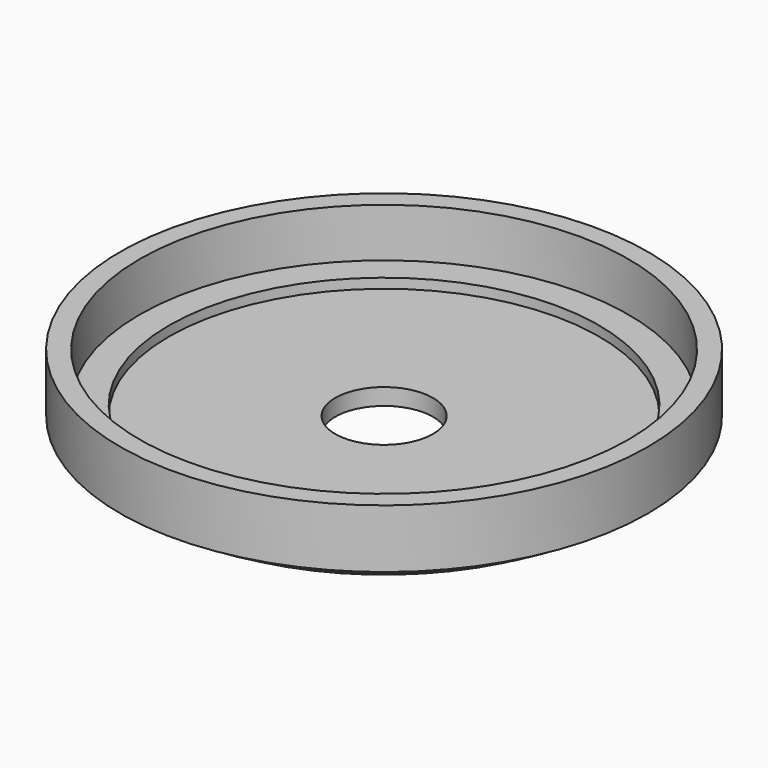
from build123d import *

# Parameters (mm, degrees)
F0_R      = 23.25
F0_R_2    = 5
F1_DEPTH  = 1
F2_R      = 25
F2_R_2    = 23.25
F2_R_3    = 5
F3_DEPTH  = 1.2
F4_R      = 27
F4_R_2    = 25
F4_R_3    = 5
F5_DEPTH  = 6
F6_R      = 22
F6_R_2    = 5
F7_DEPTH  = 6
F8_R      = 25
F8_R_2    = 22
F9_DEPTH  = 5
F10_R     = 21
F10_R_2   = 5
F11_DEPTH = 0.5


with BuildPart() as f1:
    # F0 (on Top) → F1 (new body)
    with BuildSketch(Plane.XY):
        Circle(F0_R)
        Circle(F0_R_2, mode=Mode.SUBTRACT)
    extrude(amount=F1_DEPTH)

    # F2 (on face) → F3 (join)
    with BuildSketch(Plane.XY.offset(1)):
        Circle(F2_R)
        Circle(F2_R_2, mode=Mode.SUBTRACT)
        Circle(F2_R_2)
        Circle(F2_R_3, mode=Mode.SUBTRACT)
    extrude(amount=F3_DEPTH)

    # F4 (on face) → F5 (join)
    with BuildSketch(Plane.XY.offset(2.2)):
        Circle(F4_R)
        Circle(F4_R_2, mode=Mode.SUBTRACT)
        Circle(F4_R_2)
        Circle(F4_R_3, mode=Mode.SUBTRACT)
    extrude(amount=F5_DEPTH)

    # F6 (on face) → F7 (cut)
    with BuildSketch(Plane.XY.offset(8.2)):
        Circle(F6_R)
        Circle(F6_R_2, mode=Mode.SUBTRACT)
    extrude(amount=-F7_DEPTH, mode=Mode.SUBTRACT)

    # F8 (on face) → F9 (cut)
    with BuildSketch(Plane.XY.offset(8.2)):
        Circle(F8_R)
        Circle(F8_R_2, mode=Mode.SUBTRACT)
    extrude(amount=-F9_DEPTH, mode=Mode.SUBTRACT)

    # F10 (on face) → F11 (cut)
    with BuildSketch(Plane(origin=(0, 0, 0), x_dir=(1, 0, 0), z_dir=(0, 0, -1))):
        Circle(F10_R)
        Circle(F10_R_2, mode=Mode.SUBTRACT)
    extrude(amount=-F11_DEPTH, mode=Mode.SUBTRACT)


solid = f1.part
